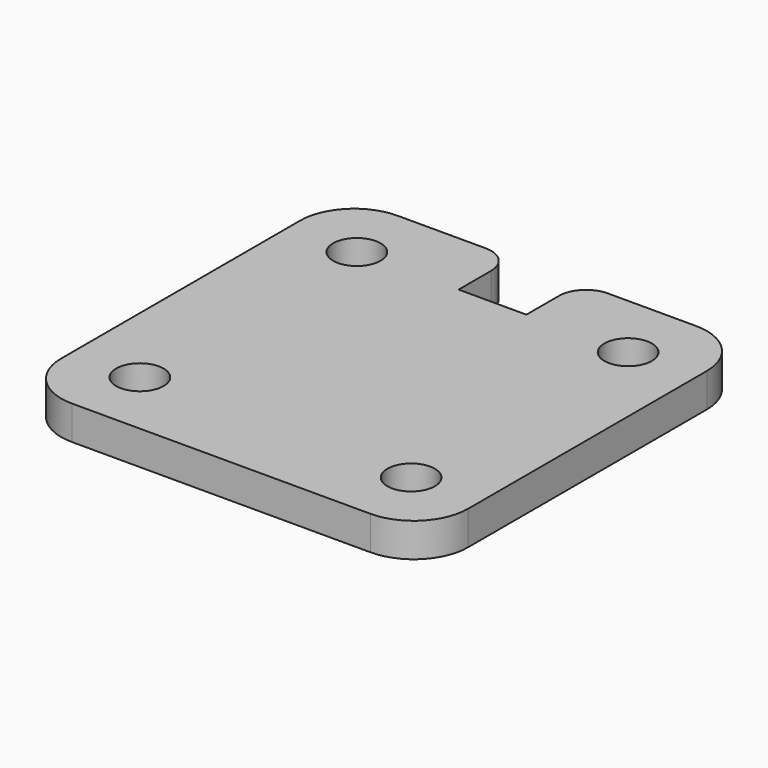
from build123d import *

# Parameters (mm, degrees)
F0_W     = 38.1
F0_H     = 38.1
F0_R     = 2.2225
F1_DEPTH = 3.175
F2_R     = 5.08
F3_W     = 6.35
F3_H     = 6.35
F4_DEPTH = 25.4
F5_R     = 2.54


with BuildPart() as f1:
    # F0 (on Top) → F1 (new body)
    with BuildSketch(Plane.XY):
        Rectangle(F0_W, F0_H)
        with Locations((-12.7, -12.7)):
            Circle(F0_R, mode=Mode.SUBTRACT)
        with Locations((12.7, -12.7)):
            Circle(F0_R, mode=Mode.SUBTRACT)
        with Locations((-12.7, 12.7)):
            Circle(F0_R, mode=Mode.SUBTRACT)
        with Locations((12.7, 12.7)):
            Circle(F0_R, mode=Mode.SUBTRACT)
    extrude(amount=F1_DEPTH)

    # F2
    f2_edges = [f1.edges().sort_by_distance(p)[0] for p in [
        (19.05, -19.05, 1.5875),
        (19.05, 19.05, 1.5875),
        (-19.05, -19.05, 1.5875),
        (-19.05, 19.05, 1.5875),
    ]]
    fillet(f2_edges, radius=F2_R)

    # F3 (on face) → F4 (cut)
    with BuildSketch(Plane.XY.offset(3.175)):
        with Locations((0, 15.875)):
            Rectangle(F3_W, F3_H)
    extrude(amount=-F4_DEPTH, mode=Mode.SUBTRACT)

    # F5
    f5_edges = [f1.edges().sort_by_distance(p)[0] for p in [
        (-3.175, 19.05, 1.5875),
        (3.175, 19.05, 1.5875),
    ]]
    fillet(f5_edges, radius=F5_R)


solid = f1.part
